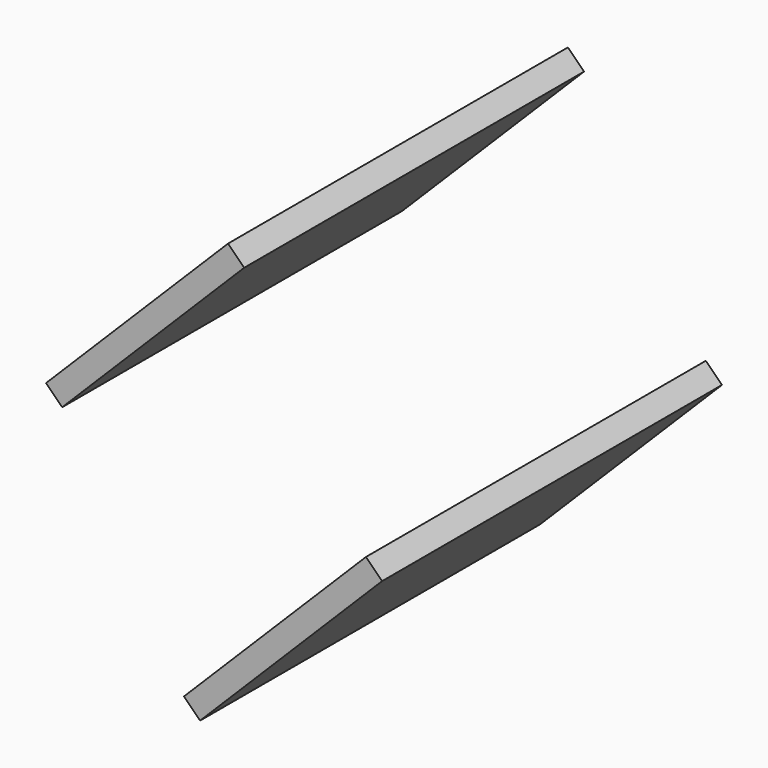
from build123d import *

# Parameters (mm, degrees)
F0_W     = 9.525
F0_H     = 107.696
F1_DEPTH = 177.8
F2_ANGLE = 45


with BuildPart() as f1:
    # F0 (on Front) → F1 (new body)
    with BuildSketch(Plane.XZ):
        with Locations((-35.025671649, 70.9775125037)):
            Rectangle(F0_W, F0_H)
    extrude(amount=F1_DEPTH)


with BuildPart() as f1_1:
    # F2: moved
    add(f1.part.rotate(Axis((-30.263171649, -88.9, 17.1295125037), (0, 1, 0)), F2_ANGLE))


with BuildPart() as f3_1:
    # F3: copy of F1
    add(f1_1.part.moved(Location((0, 72.136, -144.78))))


solid = Compound([f1_1.part, f3_1.part])
